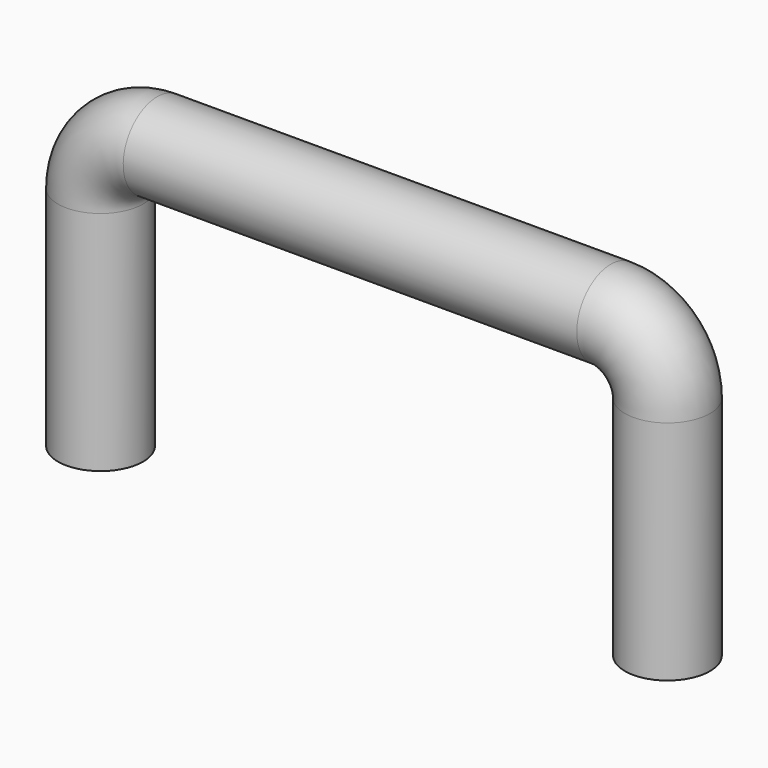
from build123d import *

# Parameters (mm, degrees)
F1_R = 7.5


with BuildPart() as f3:
    # F3: sweep along a path in F2
    with BuildLine(Plane.XZ) as f3_path:
        Line((-50, -25), (-50, 15))
        ThreePointArc((-50, 15), (-47.071068, 22.071068), (-40, 25))
        Line((-40, 25), (40, 25))
        ThreePointArc((40, 25), (47.071068, 22.071068), (50, 15))
        Line((50, 15), (50, -25))
    # F1 (on offset) → F3 (sweep)
    with BuildSketch(Plane.XY.offset(-25)):
        with Locations((-50, 0)):
            Circle(F1_R)
    sweep(path=f3_path.line)


solid = f3.part
